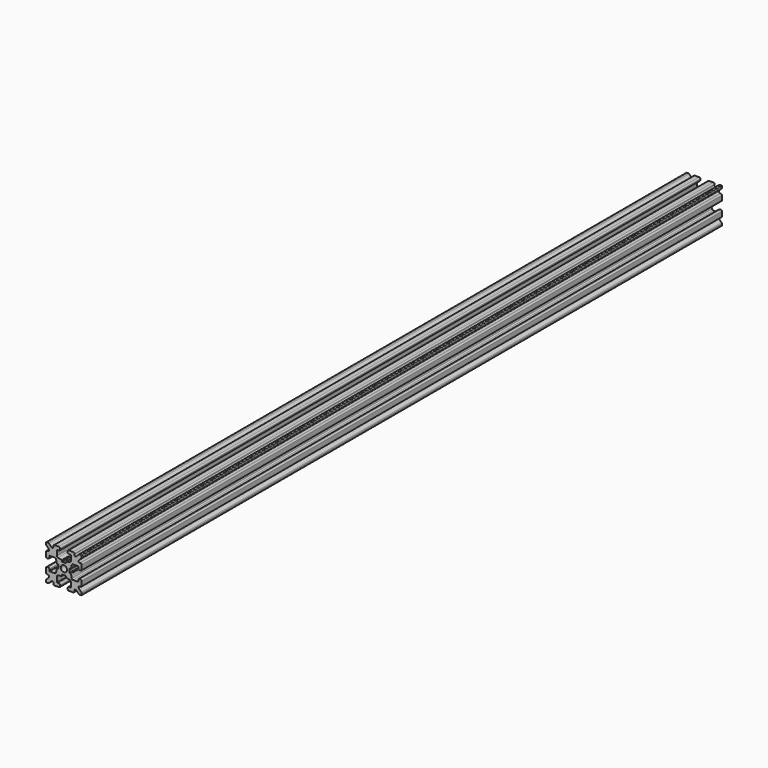
from build123d import *

# Parameters (mm, degrees)
F0_R     = 1.3
F1_DEPTH = 168.5


with BuildPart() as f1:
    # F0 (on Front) → F1 (new body, symmetric)
    with BuildSketch(Plane.XZ):
        with BuildLine():
            ThreePointArc((0.6255, -2.347065), (0.766921, -2.405643), (0.8255, -2.547065))
            Line((0.8255, -2.547065), (0.8255, -2.774891))
            ThreePointArc((0.8255, -2.774891), (0.869378, -2.899894), (0.981758, -2.970049))
            Line((0.981758, -2.970049), (2.509356, -3.312442))
            ThreePointArc((2.509356, -3.312442), (2.790306, -3.487829), (2.9, -3.800337))
            Line((2.9, -3.800337), (2.9, -5.9))
            ThreePointArc((2.9, -5.9), (2.841421, -6.041421), (2.7, -6.1))
            Line((2.7, -6.1), (2.1, -6.1))
            ThreePointArc((2.1, -6.1), (1.746447, -6.246447), (1.6, -6.6))
            Line((1.6, -6.6), (1.6, -7))
            ThreePointArc((1.6, -7), (1.746447, -7.353553), (2.1, -7.5))
            Line((2.1, -7.5), (3.9, -7.5))
            ThreePointArc((3.9, -7.5), (4.253553, -7.353553), (4.4, -7))
            Line((4.4, -7), (4.4, -6.667767))
            ThreePointArc((4.4, -6.667767), (4.708658, -6.205827), (5.253553, -6.314214))
            Line((5.253553, -6.314214), (6.292893, -7.353553))
            ThreePointArc((6.292893, -7.353553), (6.455105, -7.46194), (6.646447, -7.5))
            Line((6.646447, -7.5), (7.25, -7.5))
            ThreePointArc((7.25, -7.5), (7.426777, -7.426777), (7.5, -7.25))
            Line((7.5, -7.25), (7.5, -6.646447))
            ThreePointArc((7.5, -6.646447), (7.46194, -6.455105), (7.353553, -6.292893))
            Line((7.353553, -6.292893), (6.314214, -5.253553))
            ThreePointArc((6.314214, -5.253553), (6.205827, -4.708658), (6.667767, -4.4))
            Line((6.667767, -4.4), (7, -4.4))
            ThreePointArc((7, -4.4), (7.353553, -4.253553), (7.5, -3.9))
            Line((7.5, -3.9), (7.5, -2.1))
            ThreePointArc((7.5, -2.1), (7.353553, -1.746447), (7, -1.6))
            Line((7, -1.6), (6.6, -1.6))
            ThreePointArc((6.6, -1.6), (6.246447, -1.746447), (6.1, -2.1))
            Line((6.1, -2.1), (6.1, -2.7))
            ThreePointArc((6.1, -2.7), (6.041421, -2.841421), (5.9, -2.9))
            Line((5.9, -2.9), (3.800337, -2.9))
            ThreePointArc((3.800337, -2.9), (3.487829, -2.790306), (3.312442, -2.509356))
            Line((3.312442, -2.509356), (2.970049, -0.981758))
            ThreePointArc((2.970049, -0.981758), (2.899894, -0.869378), (2.774891, -0.8255))
            Line((2.774891, -0.8255), (2.547065, -0.8255))
            ThreePointArc((2.547065, -0.8255), (2.405643, -0.766921), (2.347065, -0.6255))
            Line((2.347065, -0.6255), (2.347065, 0.6255))
            ThreePointArc((2.347065, 0.6255), (2.405643, 0.766921), (2.547065, 0.8255))
            Line((2.547065, 0.8255), (2.774891, 0.8255))
            ThreePointArc((2.774891, 0.8255), (2.899894, 0.869378), (2.970049, 0.981758))
            Line((2.970049, 0.981758), (3.312442, 2.509356))
            ThreePointArc((3.312442, 2.509356), (3.487829, 2.790306), (3.800337, 2.9))
            Line((3.800337, 2.9), (5.9, 2.9))
            ThreePointArc((5.9, 2.9), (6.041421, 2.841421), (6.1, 2.7))
            Line((6.1, 2.7), (6.1, 2.1))
            ThreePointArc((6.1, 2.1), (6.246447, 1.746447), (6.6, 1.6))
            Line((6.6, 1.6), (7, 1.6))
            ThreePointArc((7, 1.6), (7.353553, 1.746447), (7.5, 2.1))
            Line((7.5, 2.1), (7.5, 3.9))
            ThreePointArc((7.5, 3.9), (7.353553, 4.253553), (7, 4.4))
            Line((7, 4.4), (6.667767, 4.4))
            ThreePointArc((6.667767, 4.4), (6.205827, 4.708658), (6.314214, 5.253553))
            Line((6.314214, 5.253553), (7.353553, 6.292893))
            ThreePointArc((7.353553, 6.292893), (7.46194, 6.455105), (7.5, 6.646447))
            Line((7.5, 6.646447), (7.5, 7.25))
            ThreePointArc((7.5, 7.25), (7.426777, 7.426777), (7.25, 7.5))
            Line((7.25, 7.5), (6.646447, 7.5))
            ThreePointArc((6.646447, 7.5), (6.455105, 7.46194), (6.292893, 7.353553))
            Line((6.292893, 7.353553), (5.253553, 6.314214))
            ThreePointArc((5.253553, 6.314214), (4.708658, 6.205827), (4.4, 6.667767))
            Line((4.4, 6.667767), (4.4, 7))
            ThreePointArc((4.4, 7), (4.253553, 7.353553), (3.9, 7.5))
            Line((3.9, 7.5), (2.1, 7.5))
            ThreePointArc((2.1, 7.5), (1.746447, 7.353553), (1.6, 7))
            Line((1.6, 7), (1.6, 6.6))
            ThreePointArc((1.6, 6.6), (1.746447, 6.246447), (2.1, 6.1))
            Line((2.1, 6.1), (2.7, 6.1))
            ThreePointArc((2.7, 6.1), (2.841421, 6.041421), (2.9, 5.9))
            Line((2.9, 5.9), (2.9, 3.800337))
            ThreePointArc((2.9, 3.800337), (2.790306, 3.487829), (2.509356, 3.312442))
            Line((2.509356, 3.312442), (0.981758, 2.970049))
            ThreePointArc((0.981758, 2.970049), (0.869378, 2.899894), (0.8255, 2.774891))
            Line((0.8255, 2.774891), (0.8255, 2.547065))
            ThreePointArc((0.8255, 2.547065), (0.766921, 2.405643), (0.6255, 2.347065))
            Line((0.6255, 2.347065), (-0.6255, 2.347065))
            ThreePointArc((-0.6255, 2.347065), (-0.766921, 2.405643), (-0.8255, 2.547065))
            Line((-0.8255, 2.547065), (-0.8255, 2.774891))
            ThreePointArc((-0.8255, 2.774891), (-0.869378, 2.899894), (-0.981758, 2.970049))
            Line((-0.981758, 2.970049), (-2.509356, 3.312442))
            ThreePointArc((-2.509356, 3.312442), (-2.790306, 3.487829), (-2.9, 3.800337))
            Line((-2.9, 3.800337), (-2.9, 5.9))
            ThreePointArc((-2.9, 5.9), (-2.841421, 6.041421), (-2.7, 6.1))
            Line((-2.7, 6.1), (-2.1, 6.1))
            ThreePointArc((-2.1, 6.1), (-1.746447, 6.246447), (-1.6, 6.6))
            Line((-1.6, 6.6), (-1.6, 7))
            ThreePointArc((-1.6, 7), (-1.746447, 7.353553), (-2.1, 7.5))
            Line((-2.1, 7.5), (-3.9, 7.5))
            ThreePointArc((-3.9, 7.5), (-4.253553, 7.353553), (-4.4, 7))
            Line((-4.4, 7), (-4.4, 6.667767))
            ThreePointArc((-4.4, 6.667767), (-4.708658, 6.205827), (-5.253553, 6.314214))
            Line((-5.253553, 6.314214), (-6.292893, 7.353553))
            ThreePointArc((-6.292893, 7.353553), (-6.455105, 7.46194), (-6.646447, 7.5))
            Line((-6.646447, 7.5), (-7.25, 7.5))
            ThreePointArc((-7.25, 7.5), (-7.426777, 7.426777), (-7.5, 7.25))
            Line((-7.5, 7.25), (-7.5, 6.646447))
            ThreePointArc((-7.5, 6.646447), (-7.46194, 6.455105), (-7.353553, 6.292893))
            Line((-7.353553, 6.292893), (-6.314214, 5.253553))
            ThreePointArc((-6.314214, 5.253553), (-6.205827, 4.708658), (-6.667767, 4.4))
            Line((-6.667767, 4.4), (-7, 4.4))
            ThreePointArc((-7, 4.4), (-7.353553, 4.253553), (-7.5, 3.9))
            Line((-7.5, 3.9), (-7.5, 2.1))
            ThreePointArc((-7.5, 2.1), (-7.353553, 1.746447), (-7, 1.6))
            Line((-7, 1.6), (-6.6, 1.6))
            ThreePointArc((-6.6, 1.6), (-6.246447, 1.746447), (-6.1, 2.1))
            Line((-6.1, 2.1), (-6.1, 2.7))
            ThreePointArc((-6.1, 2.7), (-6.041421, 2.841421), (-5.9, 2.9))
            Line((-5.9, 2.9), (-3.800337, 2.9))
            ThreePointArc((-3.800337, 2.9), (-3.487829, 2.790306), (-3.312442, 2.509356))
            Line((-3.312442, 2.509356), (-2.970049, 0.981758))
            ThreePointArc((-2.970049, 0.981758), (-2.899894, 0.869378), (-2.774891, 0.8255))
            Line((-2.774891, 0.8255), (-2.547065, 0.8255))
            ThreePointArc((-2.547065, 0.8255), (-2.405643, 0.766921), (-2.347065, 0.6255))
            Line((-2.347065, 0.6255), (-2.347065, -0.6255))
            ThreePointArc((-2.347065, -0.6255), (-2.405643, -0.766921), (-2.547065, -0.8255))
            Line((-2.547065, -0.8255), (-2.774891, -0.8255))
            ThreePointArc((-2.774891, -0.8255), (-2.899894, -0.869378), (-2.970049, -0.981758))
            Line((-2.970049, -0.981758), (-3.312442, -2.509356))
            ThreePointArc((-3.312442, -2.509356), (-3.487829, -2.790306), (-3.800337, -2.9))
            Line((-3.800337, -2.9), (-5.9, -2.9))
            ThreePointArc((-5.9, -2.9), (-6.041421, -2.841421), (-6.1, -2.7))
            Line((-6.1, -2.7), (-6.1, -2.1))
            ThreePointArc((-6.1, -2.1), (-6.246447, -1.746447), (-6.6, -1.6))
            Line((-6.6, -1.6), (-7, -1.6))
            ThreePointArc((-7, -1.6), (-7.353553, -1.746447), (-7.5, -2.1))
            Line((-7.5, -2.1), (-7.5, -3.9))
            ThreePointArc((-7.5, -3.9), (-7.353553, -4.253553), (-7, -4.4))
            Line((-7, -4.4), (-6.667767, -4.4))
            ThreePointArc((-6.667767, -4.4), (-6.205827, -4.708658), (-6.314214, -5.253553))
            Line((-6.314214, -5.253553), (-7.353553, -6.292893))
            ThreePointArc((-7.353553, -6.292893), (-7.46194, -6.455105), (-7.5, -6.646447))
            Line((-7.5, -6.646447), (-7.5, -7.25))
            ThreePointArc((-7.5, -7.25), (-7.426777, -7.426777), (-7.25, -7.5))
            Line((-7.25, -7.5), (-6.646447, -7.5))
            ThreePointArc((-6.646447, -7.5), (-6.455105, -7.46194), (-6.292893, -7.353553))
            Line((-6.292893, -7.353553), (-5.253553, -6.314214))
            ThreePointArc((-5.253553, -6.314214), (-4.708658, -6.205827), (-4.4, -6.667767))
            Line((-4.4, -6.667767), (-4.4, -7))
            ThreePointArc((-4.4, -7), (-4.253553, -7.353553), (-3.9, -7.5))
            Line((-3.9, -7.5), (-2.1, -7.5))
            ThreePointArc((-2.1, -7.5), (-1.746447, -7.353553), (-1.6, -7))
            Line((-1.6, -7), (-1.6, -6.6))
            ThreePointArc((-1.6, -6.6), (-1.746447, -6.246447), (-2.1, -6.1))
            Line((-2.1, -6.1), (-2.7, -6.1))
            ThreePointArc((-2.7, -6.1), (-2.841421, -6.041421), (-2.9, -5.9))
            Line((-2.9, -5.9), (-2.9, -3.800337))
            ThreePointArc((-2.9, -3.800337), (-2.790306, -3.487829), (-2.509356, -3.312442))
            Line((-2.509356, -3.312442), (-0.981758, -2.970049))
            ThreePointArc((-0.981758, -2.970049), (-0.869378, -2.899894), (-0.8255, -2.774891))
            Line((-0.8255, -2.774891), (-0.8255, -2.547065))
            ThreePointArc((-0.8255, -2.547065), (-0.766921, -2.405643), (-0.6255, -2.347065))
            Line((-0.6255, -2.347065), (0.6255, -2.347065))
        make_face()
        Circle(F0_R, mode=Mode.SUBTRACT)
    extrude(amount=F1_DEPTH, both=True)


solid = f1.part
